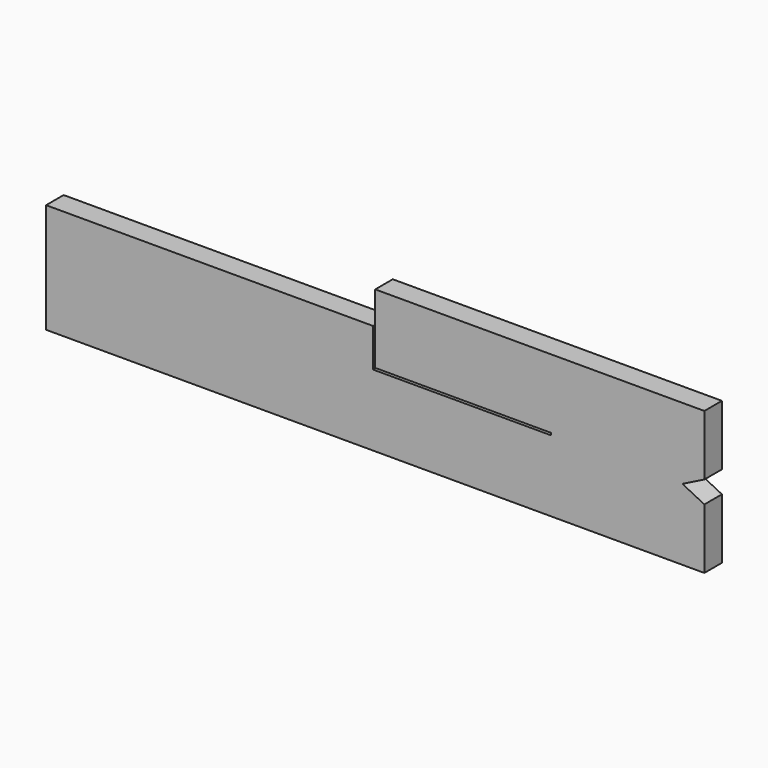
from build123d import *

# Parameters (mm, degrees)
F0_W     = 60
F0_H     = 10
F1_DEPTH = 2
F2_W     = 30
F2_H     = 3
F3_DEPTH = 2
F5_DEPTH = 2.001


with BuildPart() as f1:
    # F0 (on Front) → F1 (new body)
    with BuildSketch(Plane.XZ):
        with Locations((30, 5)):
            Rectangle(F0_W, F0_H)
    extrude(amount=F1_DEPTH)

    # F2 (on face) → F3 (join, through all)
    with BuildSketch(Plane.XZ.offset(2)):
        with Locations((45, 11.5)):
            Rectangle(F2_W, F2_H)
    extrude(amount=-F3_DEPTH)

    # F4 (on face) → F5 (cut, through all)
    with BuildSketch(Plane.XZ.offset(2)):
        Polygon((60, 5.5), (60, 7.5), (58, 6.5), align=None)
        Polygon((30, 6.7), (30, 10), (29.8, 10), (29.8, 6.5), (46, 6.5), (46, 6.7), align=None)
    extrude(amount=-F5_DEPTH, mode=Mode.SUBTRACT)


solid = f1.part
